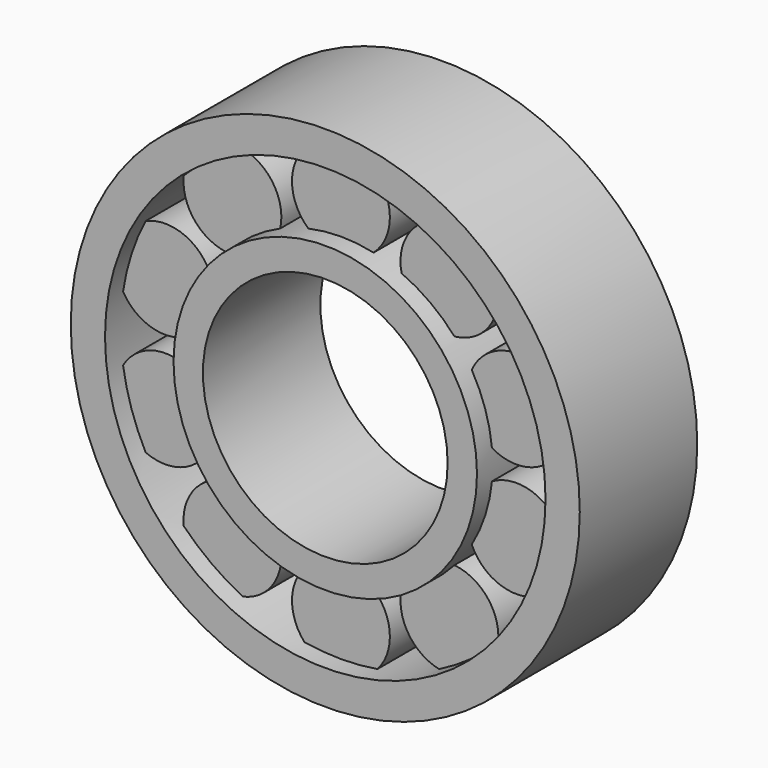
from build123d import *

# Parameters (mm, degrees)
F0_R     = 26
F0_R_2   = 22.5
F0_R_3   = 15.5
F0_R_4   = 12.5
F1_DEPTH = 15
F3_R     = 5
F4_DEPTH = 11


with BuildPart() as f1:
    # F0 (on Front) → F1 (new body)
    with BuildSketch(Plane.XZ):
        Circle(F0_R)
        Circle(F0_R_2, mode=Mode.SUBTRACT)
        Circle(F0_R_3)
        Circle(F0_R_4, mode=Mode.SUBTRACT)
    extrude(amount=-F1_DEPTH)

    # F3 (on offset) → F4 (join)
    with BuildSketch(Plane.XZ.offset(-2)):
        with Locations((11.084581, 15.256616)):
            Circle(F3_R)
        with Locations((17.935228, 5.827509)):
            Circle(F3_R)
        with Locations((17.935228, -5.827509)):
            Circle(F3_R)
        with Locations((11.084581, -15.256616)):
            Circle(F3_R)
        with Locations((0, -18.858215)):
            Circle(F3_R)
        with Locations((-11.084581, -15.256616)):
            Circle(F3_R)
        with Locations((-17.935228, -5.827509)):
            Circle(F3_R)
        with Locations((-11.084581, 15.256616)):
            Circle(F3_R)
        with Locations((0, 18.858215)):
            Circle(F3_R)
        with Locations((-17.935228, 5.827509)):
            Circle(F3_R)
    extrude(amount=-F4_DEPTH)


solid = f1.part
